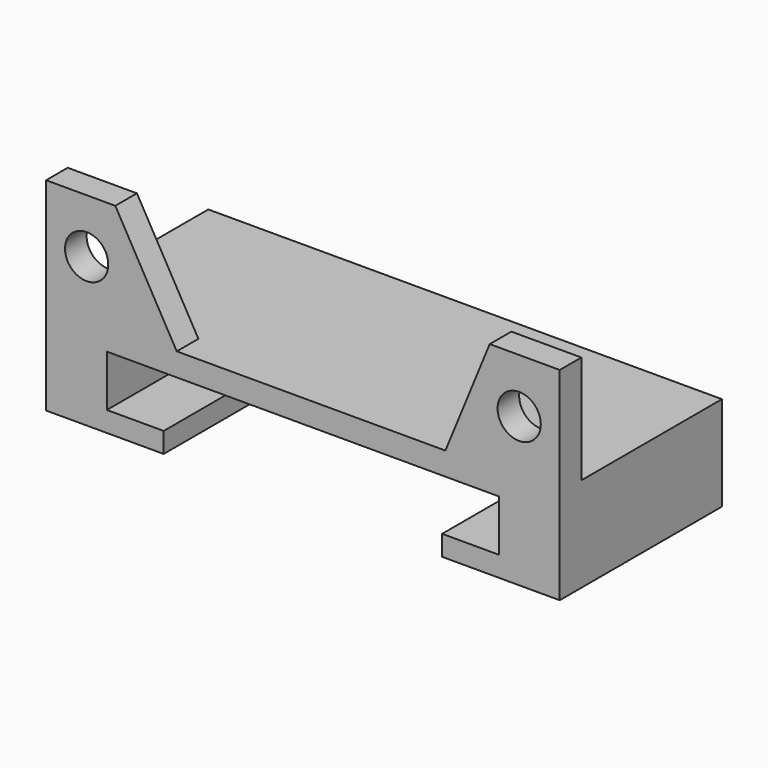
from build123d import *

# Parameters (mm, degrees)
F0_W      = 38
F0_H      = 15
F1_DEPTH  = 7
F2_W      = 29
F2_H      = 3.8
F3_DEPTH  = 30
F5_W      = 20.6003077328
F5_H      = 15
F6_DEPTH  = 5
F4_W      = 38
F4_H      = 2
F7_DEPTH  = 8
F9_D      = 3.2
F10_DEPTH = 25


with BuildPart() as f1:
    # F0 (on Top) → F1 (new body)
    with BuildSketch(Plane.XY):
        Rectangle(F0_W, F0_H)
    extrude(amount=F1_DEPTH)

    # F2 (on face) → F3 (cut)
    with BuildSketch(Plane.XZ.offset(7.5)):
        with Locations((0, 3.4002120374)):
            Rectangle(F2_W, F2_H)
    extrude(amount=-F3_DEPTH, mode=Mode.SUBTRACT)

    # F5 (on face) → F6 (cut)
    with BuildSketch(Plane(origin=(0, 0, 0), x_dir=(1, 0, 0), z_dir=(0, 0, -1))):
        Rectangle(F5_W, F5_H)
    extrude(amount=-F6_DEPTH, mode=Mode.SUBTRACT)

    # F4 (on face) → F7 (join)
    with BuildSketch(Plane.XY.offset(7)):
        with Locations((0, -6.5)):
            Rectangle(F4_W, F4_H)
    extrude(amount=F7_DEPTH)

    # F9 (through all)
    with Locations(Plane(origin=(0, -5.5, 0), x_dir=(-1, 0, 0), z_dir=(0, 1, 0))):
        with Locations((16, 11), (-16, 11)):
            Hole(F9_D / 2)

    # F8 (on face) → F10 (cut)
    with BuildSketch(Plane(origin=(0, -5.5, 0), x_dir=(-1, 0, 0), z_dir=(0, 1, 0))):
        Polygon((9.3329623342, 7), (13.877848681, 15), (-13.8199780472, 15), (-10.5432244018, 7), align=None)
    extrude(amount=-F10_DEPTH, mode=Mode.SUBTRACT)


solid = f1.part
